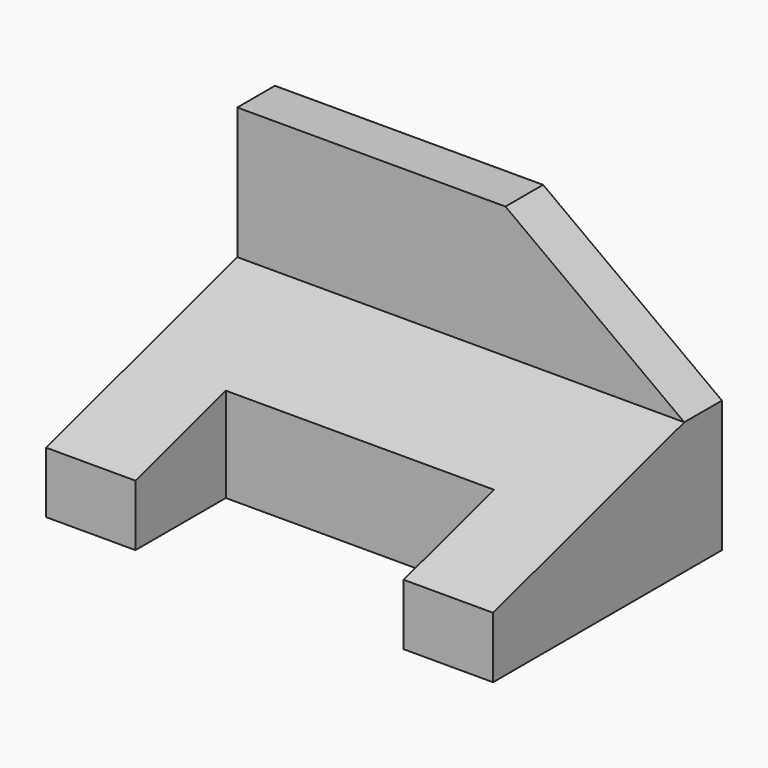
from build123d import *

# Parameters (mm, degrees)
F1_DEPTH = 95
F3_DEPTH = 10
F4_W     = 57
F4_H     = 24
F5_DEPTH = 55.8


with BuildPart() as f1:
    # F0 (on Right) → F1 (new body)
    with BuildSketch(Plane.YZ):
        Polygon((0, 56), (-10, 56), (-10, 28), (-60.793455, 13), (-60.793455, 0), (-10, 0), (0, 0), (0, 28), align=None)
    extrude(amount=F1_DEPTH)

    # F2 (on face) → F3 (cut, through all)
    with BuildSketch(Plane.XZ.offset(10)):
        Polygon((95, 56), (57, 56), (95, 28), align=None)
    extrude(amount=-F3_DEPTH, mode=Mode.SUBTRACT)

    # F4 (on face) → F5 (cut)
    with BuildSketch(Plane(origin=(0, 0, 0), x_dir=(1, 0, 0), z_dir=(0, 0, -1))):
        with Locations((47.5, 48.793455)):
            Rectangle(F4_W, F4_H)
    extrude(amount=-F5_DEPTH, mode=Mode.SUBTRACT)


solid = f1.part
